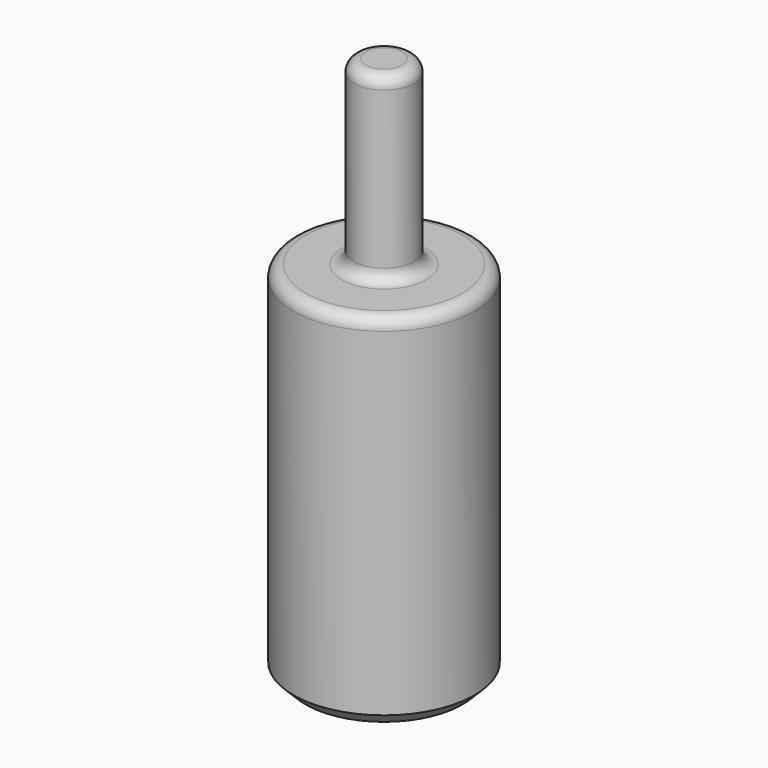
from build123d import *

# Parameters (mm, degrees)
F2_R    = 1
F3_SIZE = 1


with BuildPart() as f1:
    # F0 (on Right) → F1 (revolve)
    with BuildSketch(Plane.YZ):
        Polygon((2.5, 27), (2.5, 0), (7.5, 0), (7.5, 30), (2.5, 30), (2.5, 45), (0, 45), (0, 27), align=None)
    revolve(axis=Axis((0, 0, 12.798217), (0, 0, -1)))

    # F2
    f2_edges = [f1.edges().sort_by_distance(p)[0] for p in [
        (0, -2.5, 45),
        (0, -2.5, 30),
        (0, -7.5, 30),
    ]]
    fillet(f2_edges, radius=F2_R)

    # F3
    f3_edges = [f1.edges().sort_by_distance(p)[0] for p in [
        (0, -7.5, 0),
    ]]
    chamfer(f3_edges, length=F3_SIZE)


solid = f1.part
